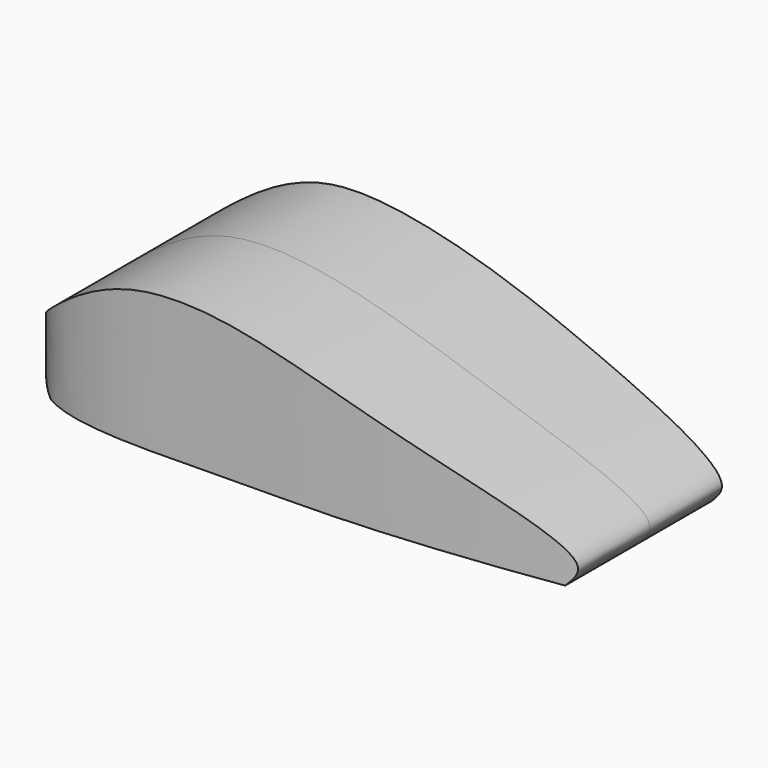
from build123d import *

# Parameters (mm, degrees)
F1_DEPTH = 33.02
F3_DEPTH = 46.228


with BuildPart() as f1:
    # F0 (on Front) → F1 (new body, symmetric)
    with BuildSketch(Plane.XZ):
        with BuildLine():
            add(Edge.make_bspline(
                [(-77.9844298959, 15.3364567086), (-67.441559708, 24.8348439385), (-43.1319946928, 46.7360584835), (22.46335452, 23.9693705903), (72.659725133, 8.35028032), (66.1617990206, 1.7936686418), (64.3841847777, 0)],
                knots=[0, 0, 0, 0, 0.2688517645, 0.6199136794, 0.8960211542, 1, 1, 1, 1], degree=3))
            add(Edge.make_bspline(
                [(-71.3289901614, 0), (-74.858591664, 1.8481354579), (-81.7026713629, 5.4317656097), (-79.1975971976, 12.1048087693), (-77.9844298959, 15.3364567086)],
                knots=[0, 0, 0, 0, 0.5157160141, 1, 1, 1, 1], degree=3))
            add(Edge.make_bspline(
                [(64.3841847777, 0), (19.146459798, 0), (-26.0912651817, 0), (-71.3289901614, 0)],
                knots=[0, 0, 0, 0, 135.7131749392, 135.7131749392, 135.7131749392, 135.7131749392], degree=3))
        make_face()
    extrude(amount=F1_DEPTH, both=True)

    # F2 (on Top) → F3 (cut)
    with BuildSketch(Plane.XY):
        with BuildLine():
            add(Edge.make_bspline(
                [(70.3138560057, 23.4387349337), (52.7439974276, 26.3448128405), (12.422499824, 30.9157610033), (-22.4144593659, 30.0883111575), (-75.8150707057, 32.5826236572), (-81.7138541645, 2.8185815309), (-111.8653829035, 58.4975544), (-32.0404997441, 65.3267380398), (86.20435915, 72.3628390242), (102.4729090282, 17.0636754281), (81.8808994496, 21.52553061), (70.3138560057, 23.4387349337)],
                knots=[0, 0, 0, 0, 0.1261345711, 0.2315382861, 0.3473631849, 0.4107244289, 0.5073490116, 0.6400646773, 0.8230169164, 0.9169598288, 1, 1, 1, 1], degree=3))
        make_face()
        with BuildLine():
            add(Edge.make_bspline(
                [(70.3138560057, -23.4387349337), (52.7439974276, -26.3448128405), (12.422499824, -30.9157610033), (-22.4144593659, -30.0883111575), (-75.8150707057, -32.5826236572), (-81.7138541645, -2.8185815309), (-111.8653829035, -58.4975544), (-32.0404997441, -65.3267380398), (86.20435915, -72.3628390242), (102.4729090282, -17.0636754281), (81.8808994496, -21.52553061), (70.3138560057, -23.4387349337)],
                knots=[0, 0, 0, 0, 0.1261345711, 0.2315382861, 0.3473631849, 0.4107244289, 0.5073490116, 0.6400646773, 0.8230169164, 0.9169598288, 1, 1, 1, 1], degree=3))
        make_face()
    extrude(amount=F3_DEPTH, mode=Mode.SUBTRACT)


solid = f1.part
